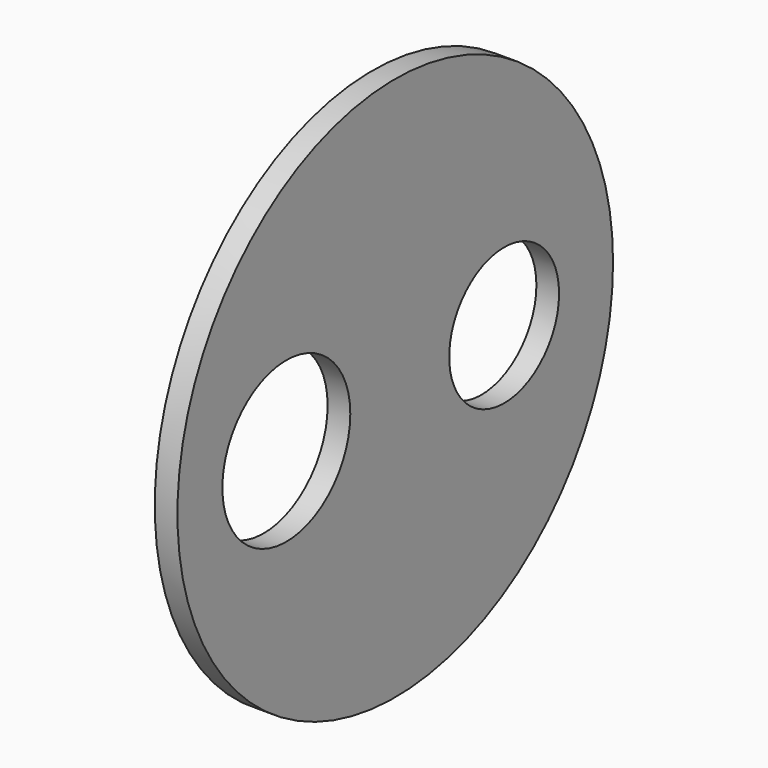
from build123d import *

# Parameters (mm, degrees)
F0_R     = 38.1
F1_DEPTH = 3.175
F2_R     = 11.189108
F2_R_2   = 9.609442
F3_DEPTH = 25.4


with BuildPart() as f1:
    # F0 (on Right) → F1 (new body)
    with BuildSketch(Plane.YZ):
        Circle(F0_R)
    extrude(amount=F1_DEPTH)

    # F2 (on face) → F3 (cut)
    with BuildSketch(Plane.YZ.offset(3.175)):
        with Locations((-19.05, 0)):
            Circle(F2_R)
        with Locations((19.05, 0)):
            Circle(F2_R_2)
    extrude(amount=-F3_DEPTH, mode=Mode.SUBTRACT)


solid = f1.part
